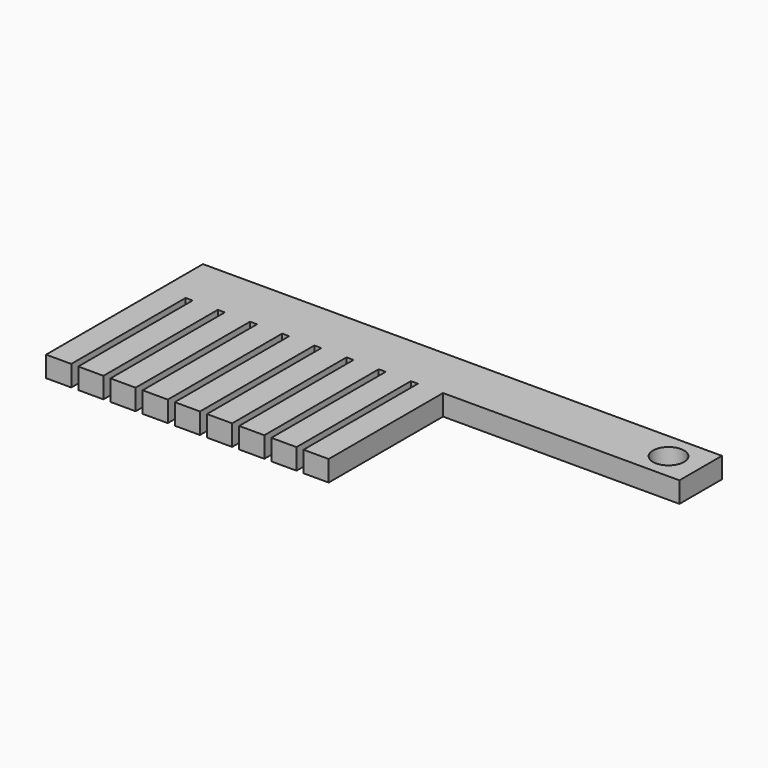
from build123d import *

# Parameters (mm, degrees)
F0_W     = 6.16181
F0_H     = 34.9758
F1_DEPTH = 5.08
F2_R     = 3.81
F3_DEPTH = 25.4


with BuildPart() as f1:
    # F0 (on Top) → F1 (new body)
    with BuildSketch(Plane.XY):
        Polygon((-111.135946, 33.877251), (-111.135946, 20.877251), (-104.974136, 20.877251), (-103.261946, 20.877251), (-97.100136, 20.877251), (-95.387946, 20.877251), (-89.226136, 20.877251), (-87.513946, 20.877251), (-81.352136, 20.877251), (-79.639946, 20.877251), (-73.478136, 20.877251), (-71.765946, 20.877251), (-65.604136, 20.877251), (-63.891946, 20.877251), (-57.730136, 20.877251), (-56.017946, 20.877251), (-49.856136, 20.877251), (-48.143946, 20.877251), (-41.982136, 20.877251), (15.864054, 20.877251), (15.864054, 33.877251), align=None)
        with Locations((-108.055041, 3.389351)):
            Rectangle(F0_W, F0_H)
        with Locations((-100.181041, 3.389351)):
            Rectangle(F0_W, F0_H)
        with Locations((-92.307041, 3.389351)):
            Rectangle(F0_W, F0_H)
        with Locations((-45.063041, 3.389351)):
            Rectangle(F0_W, F0_H)
        with Locations((-84.433041, 3.389351)):
            Rectangle(F0_W, F0_H)
        with Locations((-52.937041, 3.389351)):
            Rectangle(F0_W, F0_H)
        with Locations((-76.559041, 3.389351)):
            Rectangle(F0_W, F0_H)
        with Locations((-60.811041, 3.389351)):
            Rectangle(F0_W, F0_H)
        with Locations((-68.685041, 3.389351)):
            Rectangle(F0_W, F0_H)
    extrude(amount=F1_DEPTH)

    # F2 (on face) → F3 (cut)
    with BuildSketch(Plane.XY.offset(5.08)):
        with Locations((8.004281, 27.377251)):
            Circle(F2_R)
    extrude(amount=-F3_DEPTH, mode=Mode.SUBTRACT)


solid = f1.part
